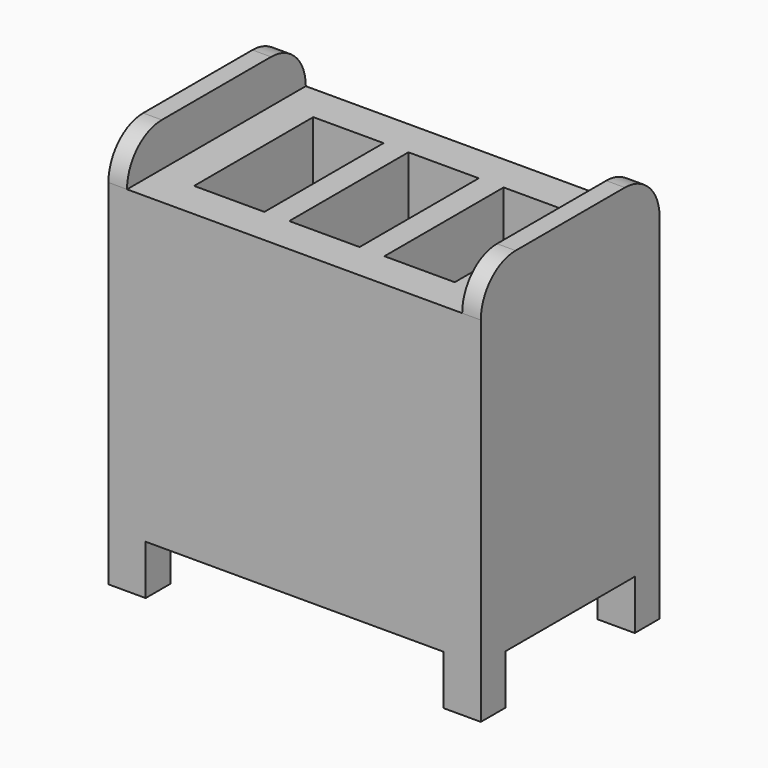
from build123d import *

# Parameters (mm, degrees)
F1_DEPTH = 762
F2_W     = 685.8
F2_H     = 88.9
F2_W_2   = 609.6
F2_H_2   = 101.6
F3_DEPTH = 457.201
F4_W     = 143.9333333333
F4_H     = 304.8
F5_DEPTH = 508


with BuildPart() as f1:
    # F0 (on Right) → F1 (new body)
    with BuildSketch(Plane.YZ):
        with BuildLine():
            ThreePointArc((88.9, 812.8), (26.0382071525, 786.7617928475), (0, 723.9))
            Line((0, 723.9), (457.2, 723.9))
            ThreePointArc((457.2, 723.9), (431.1617928475, 786.7617928475), (368.3, 812.8))
            Line((368.3, 812.8), (88.9, 812.8))
        make_face()
        Polygon((0, 723.9), (0, 0), (63.5, 0), (63.5, 101.6), (393.7, 101.6), (393.7, 0), (457.2, 0), (457.2, 723.9), align=None)
    extrude(amount=F1_DEPTH)

    # F2 (on face) → F3 (cut, through all)
    with BuildSketch(Plane.XZ):
        with Locations((381, 768.35)):
            Rectangle(F2_W, F2_H)
        with Locations((381, 50.8)):
            Rectangle(F2_W_2, F2_H_2)
    extrude(amount=-F3_DEPTH, mode=Mode.SUBTRACT)

    # F4 (on face) → F5 (cut)
    with BuildSketch(Plane.XY.offset(723.9)):
        with Locations((186.2666666667, 228.6)):
            Rectangle(F4_W, F4_H)
        with Locations((381, 228.6)):
            Rectangle(F4_W, F4_H)
        with Locations((575.7333333333, 228.6)):
            Rectangle(F4_W, F4_H)
    extrude(amount=-F5_DEPTH, mode=Mode.SUBTRACT)


solid = f1.part
